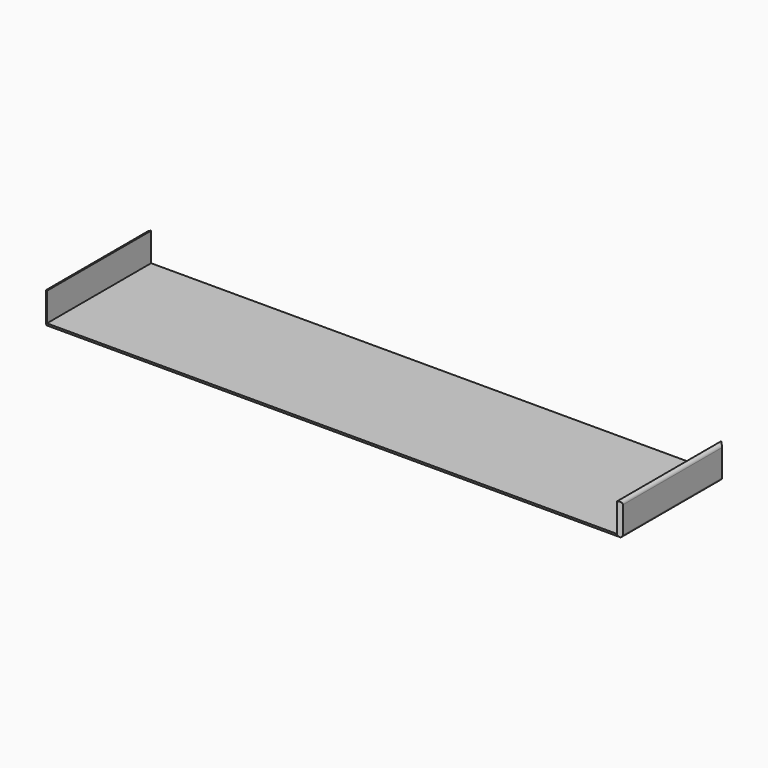
from build123d import *

# Parameters (mm, degrees)
SKETCH_W     = 270.2
SKETCH_H     = 61
PAD_DEPTH    = 1.6
SKETCH001_W  = 1.6
SKETCH001_H  = 61
PAD001_DEPTH = 15
CHAMFER_SIZE = 1.5
FILLET_R     = 1.5
FILLET001_R  = 1.5
FILLET002_R  = 1


with BuildPart() as part:
    # Sketch → Pad (new body)
    with BuildSketch(Plane.XY):
        Rectangle(SKETCH_W, SKETCH_H)
    extrude(amount=PAD_DEPTH)

    # Sketch001 → Pad001 (join)
    with BuildSketch(Plane.XY):
        with Locations((-134.3, 0)):
            Rectangle(SKETCH001_W, SKETCH001_H)
        with Locations((134.3, 0)):
            Rectangle(SKETCH001_W, SKETCH001_H)
    extrude(amount=PAD001_DEPTH)

    # Chamfer
    chamfer_edges = [part.edges().sort_by_distance(p)[0] for p in [
        (-135.1, 30.5, 7.5),
        (135.1, 30.5, 7.5),
        (135.1, -30.5, 7.5),
        (-135.1, -30.5, 7.5),
    ]]
    chamfer(chamfer_edges, length=CHAMFER_SIZE)

    # Fillet
    fillet_edges = [part.edges().sort_by_distance(p)[0] for p in [
        (0, -30.5, 0),
        (0, 30.5, 0),
    ]]
    fillet(fillet_edges, radius=FILLET_R)

    # Fillet001
    fillet001_edges = [part.edges().sort_by_distance(p)[0] for p in [
        (-135.1, 0, 15),
        (135.1, 0, 15),
    ]]
    fillet(fillet001_edges, radius=FILLET001_R)

    # Fillet002
    fillet002_edges = [part.edges().sort_by_distance(p)[0] for p in [
        (-135.1, 0, 0),
        (135.1, 0, 0),
    ]]
    fillet(fillet002_edges, radius=FILLET002_R)


solid = part.part
